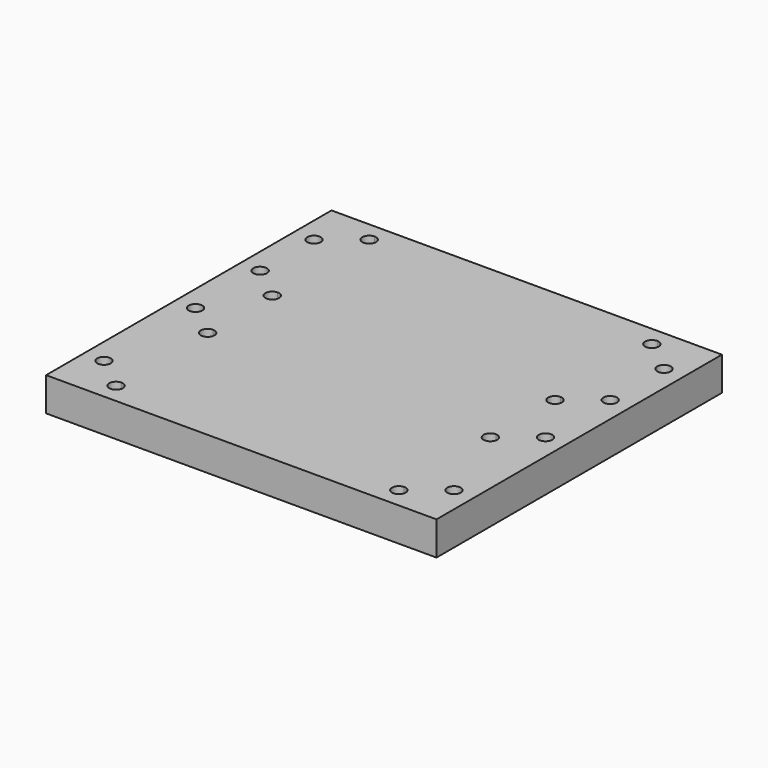
from build123d import *

# Parameters (mm, degrees)
F3_R     = 5.05
F4_DEPTH = 25
F5_DEPTH = 25


with BuildPart() as f4:
    # F3 (on Top) → F4 (new body)
    with BuildSketch(Plane.XY):
        with BuildLine():
            Line((125, 20), (20, 20))
            Line((20, 20), (20, 10.05))
            ThreePointArc((20, 10.05), (23.570889245, 8.570889245), (25.05, 5))
            ThreePointArc((25.05, 5), (23.570889245, 1.429110755), (20, -0.05))
            Line((20, -0.05), (20, -79.95))
            ThreePointArc((20, -79.95), (23.570889245, -81.429110755), (25.05, -85))
            ThreePointArc((25.05, -85), (23.570889245, -88.570889245), (20, -90.05))
            Line((20, -90.05), (20, -139.95))
            ThreePointArc((20, -139.95), (23.570889245, -141.429110755), (25.05, -145))
            ThreePointArc((25.05, -145), (23.570889245, -148.570889245), (20, -150.05))
            Line((20, -150.05), (20, -224.95))
            ThreePointArc((20, -224.95), (23.570889245, -226.429110755), (25.05, -230))
            ThreePointArc((25.05, -230), (23.570889245, -233.570889245), (20, -235.05))
            Line((20, -235.05), (20, -245))
            Line((20, -245), (125, -245))
            Line((125, -245), (125, 20))
        make_face()
        with BuildLine():
            Line((270, 20), (230, 20))
            Line((230, 20), (230, 10.05))
            ThreePointArc((230, 10.05), (233.570889245, 8.570889245), (235.05, 5))
            ThreePointArc((235.05, 5), (233.570889245, 1.429110755), (230, -0.05))
            Line((230, -0.05), (230, -79.95))
            ThreePointArc((230, -79.95), (233.570889245, -81.429110755), (235.05, -85))
            ThreePointArc((235.05, -85), (233.570889245, -88.570889245), (230, -90.05))
            Line((230, -90.05), (230, -139.95))
            ThreePointArc((230, -139.95), (233.570889245, -141.429110755), (235.05, -145))
            ThreePointArc((235.05, -145), (233.570889245, -148.570889245), (230, -150.05))
            Line((230, -150.05), (230, -224.95))
            ThreePointArc((230, -224.95), (233.570889245, -226.429110755), (235.05, -230))
            ThreePointArc((235.05, -230), (233.570889245, -233.570889245), (230, -235.05))
            Line((230, -235.05), (230, -245))
            Line((230, -245), (270, -245))
            Line((270, -245), (270, 20))
        make_face()
        with Locations((255, -210)):
            Circle(F3_R, mode=Mode.SUBTRACT)
        with Locations((255, -125)):
            Circle(F3_R, mode=Mode.SUBTRACT)
        with Locations((255, -65)):
            Circle(F3_R, mode=Mode.SUBTRACT)
        with Locations((255.05, -40)):
            Circle(F3_R, mode=Mode.SUBTRACT)
        with Locations((255, -15)):
            Circle(F3_R, mode=Mode.SUBTRACT)
        with BuildLine():
            Line((230, 20), (125, 20))
            Line((125, 20), (125, -245))
            Line((125, -245), (230, -245))
            Line((230, -245), (230, -235.05))
            ThreePointArc((230, -235.05), (224.95, -230), (230, -224.95))
            Line((230, -224.95), (230, -150.05))
            ThreePointArc((230, -150.05), (224.95, -145), (230, -139.95))
            Line((230, -139.95), (230, -90.05))
            ThreePointArc((230, -90.05), (224.95, -85), (230, -79.95))
            Line((230, -79.95), (230, -0.05))
            ThreePointArc((230, -0.05), (224.95, 5), (230, 10.05))
            Line((230, 10.05), (230, 20))
        make_face()
        with BuildLine():
            Line((20, 20), (-20, 20))
            Line((-20, 20), (-20, -245))
            Line((-20, -245), (20, -245))
            Line((20, -245), (20, -235.05))
            ThreePointArc((20, -235.05), (14.95, -230), (20, -224.95))
            Line((20, -224.95), (20, -150.05))
            ThreePointArc((20, -150.05), (14.95, -145), (20, -139.95))
            Line((20, -139.95), (20, -90.05))
            ThreePointArc((20, -90.05), (14.95, -85), (20, -79.95))
            Line((20, -79.95), (20, -0.05))
            ThreePointArc((20, -0.05), (14.95, 5), (20, 10.05))
            Line((20, 10.05), (20, 20))
        make_face()
        with Locations((-5, -210)):
            Circle(F3_R, mode=Mode.SUBTRACT)
        with Locations((-5, -125)):
            Circle(F3_R, mode=Mode.SUBTRACT)
        with Locations((-5, -65)):
            Circle(F3_R, mode=Mode.SUBTRACT)
        with Locations((-5.05, -40)):
            Circle(F3_R, mode=Mode.SUBTRACT)
        with Locations((-5, -15)):
            Circle(F3_R, mode=Mode.SUBTRACT)
        with BuildLine():
            Line((230, -139.95), (230, -150.05))
            ThreePointArc((230, -150.05), (233.570889245, -148.570889245), (235.05, -145))
            ThreePointArc((235.05, -145), (233.570889245, -141.429110755), (230, -139.95))
        make_face()
        with BuildLine():
            Line((230, -224.95), (230, -235.05))
            ThreePointArc((230, -235.05), (233.570889245, -233.570889245), (235.05, -230))
            ThreePointArc((235.05, -230), (233.570889245, -226.429110755), (230, -224.95))
        make_face()
        with BuildLine():
            ThreePointArc((20, -224.95), (14.95, -230), (20, -235.05))
            Line((20, -235.05), (20, -224.95))
        make_face()
        with BuildLine():
            ThreePointArc((230, -224.95), (224.95, -230), (230, -235.05))
            Line((230, -235.05), (230, -224.95))
        make_face()
        with BuildLine():
            Line((20, -224.95), (20, -235.05))
            ThreePointArc((20, -235.05), (23.570889245, -233.570889245), (25.05, -230))
            ThreePointArc((25.05, -230), (23.570889245, -226.429110755), (20, -224.95))
        make_face()
        with BuildLine():
            ThreePointArc((230, -139.95), (224.95, -145), (230, -150.05))
            Line((230, -150.05), (230, -139.95))
        make_face()
        with BuildLine():
            ThreePointArc((235.05, -85), (233.570889245, -81.429110755), (230, -79.95))
            Line((230, -79.95), (230, -90.05))
            ThreePointArc((230, -90.05), (233.570889245, -88.570889245), (235.05, -85))
        make_face()
        with BuildLine():
            Line((20, -139.95), (20, -150.05))
            ThreePointArc((20, -150.05), (23.570889245, -148.570889245), (25.05, -145))
            ThreePointArc((25.05, -145), (23.570889245, -141.429110755), (20, -139.95))
        make_face()
        with Locations((-5, -15)):
            Circle(F3_R)
        with BuildLine():
            ThreePointArc((20, -139.95), (14.95, -145), (20, -150.05))
            Line((20, -150.05), (20, -139.95))
        make_face()
        with BuildLine():
            ThreePointArc((25.05, -85), (23.570889245, -81.429110755), (20, -79.95))
            Line((20, -79.95), (20, -90.05))
            ThreePointArc((20, -90.05), (23.570889245, -88.570889245), (25.05, -85))
        make_face()
        with Locations((-5, -65)):
            Circle(F3_R)
        with Locations((-5.05, -40)):
            Circle(F3_R)
        with Locations((255.05, -40)):
            Circle(F3_R)
        with Locations((255, -125)):
            Circle(F3_R)
        with Locations((255, -65)):
            Circle(F3_R)
        with Locations((-5, -125)):
            Circle(F3_R)
        with Locations((-5, -210)):
            Circle(F3_R)
        with Locations((255, -210)):
            Circle(F3_R)
        with BuildLine():
            Line((20, -0.05), (20, 10.05))
            ThreePointArc((20, 10.05), (14.95, 5), (20, -0.05))
        make_face()
        with BuildLine():
            Line((230, -90.05), (230, -79.95))
            ThreePointArc((230, -79.95), (224.95, -85), (230, -90.05))
        make_face()
        with BuildLine():
            ThreePointArc((25.05, 5), (23.570889245, 8.570889245), (20, 10.05))
            Line((20, 10.05), (20, -0.05))
            ThreePointArc((20, -0.05), (23.570889245, 1.429110755), (25.05, 5))
        make_face()
        with BuildLine():
            Line((20, -90.05), (20, -79.95))
            ThreePointArc((20, -79.95), (14.95, -85), (20, -90.05))
        make_face()
        with BuildLine():
            ThreePointArc((235.05, 5), (233.570889245, 8.570889245), (230, 10.05))
            Line((230, 10.05), (230, -0.05))
            ThreePointArc((230, -0.05), (233.570889245, 1.429110755), (235.05, 5))
        make_face()
        with BuildLine():
            Line((230, -0.05), (230, 10.05))
            ThreePointArc((230, 10.05), (224.95, 5), (230, -0.05))
        make_face()
        with Locations((255, -15)):
            Circle(F3_R)
    extrude(amount=-F4_DEPTH)

    # F3 (on Top) → F5 (cut)
    with BuildSketch(Plane.XY):
        with Locations((-5, -15)):
            Circle(F3_R)
        with BuildLine():
            ThreePointArc((25.05, 5), (23.570889245, 8.570889245), (20, 10.05))
            Line((20, 10.05), (20, -0.05))
            ThreePointArc((20, -0.05), (23.570889245, 1.429110755), (25.05, 5))
        make_face()
        with BuildLine():
            Line((20, -0.05), (20, 10.05))
            ThreePointArc((20, 10.05), (14.95, 5), (20, -0.05))
        make_face()
        with Locations((-5, -65)):
            Circle(F3_R)
        with BuildLine():
            ThreePointArc((25.05, -85), (23.570889245, -81.429110755), (20, -79.95))
            Line((20, -79.95), (20, -90.05))
            ThreePointArc((20, -90.05), (23.570889245, -88.570889245), (25.05, -85))
        make_face()
        with BuildLine():
            Line((20, -90.05), (20, -79.95))
            ThreePointArc((20, -79.95), (14.95, -85), (20, -90.05))
        make_face()
        with Locations((-5, -125)):
            Circle(F3_R)
        with BuildLine():
            Line((20, -139.95), (20, -150.05))
            ThreePointArc((20, -150.05), (23.570889245, -148.570889245), (25.05, -145))
            ThreePointArc((25.05, -145), (23.570889245, -141.429110755), (20, -139.95))
        make_face()
        with BuildLine():
            ThreePointArc((20, -139.95), (14.95, -145), (20, -150.05))
            Line((20, -150.05), (20, -139.95))
        make_face()
        with Locations((-5, -210)):
            Circle(F3_R)
        with BuildLine():
            ThreePointArc((20, -224.95), (14.95, -230), (20, -235.05))
            Line((20, -235.05), (20, -224.95))
        make_face()
        with BuildLine():
            Line((20, -224.95), (20, -235.05))
            ThreePointArc((20, -235.05), (23.570889245, -233.570889245), (25.05, -230))
            ThreePointArc((25.05, -230), (23.570889245, -226.429110755), (20, -224.95))
        make_face()
        with BuildLine():
            ThreePointArc((230, -224.95), (224.95, -230), (230, -235.05))
            Line((230, -235.05), (230, -224.95))
        make_face()
        with BuildLine():
            Line((230, -224.95), (230, -235.05))
            ThreePointArc((230, -235.05), (233.570889245, -233.570889245), (235.05, -230))
            ThreePointArc((235.05, -230), (233.570889245, -226.429110755), (230, -224.95))
        make_face()
        with Locations((255, -210)):
            Circle(F3_R)
        with BuildLine():
            Line((230, -139.95), (230, -150.05))
            ThreePointArc((230, -150.05), (233.570889245, -148.570889245), (235.05, -145))
            ThreePointArc((235.05, -145), (233.570889245, -141.429110755), (230, -139.95))
        make_face()
        with BuildLine():
            ThreePointArc((230, -139.95), (224.95, -145), (230, -150.05))
            Line((230, -150.05), (230, -139.95))
        make_face()
        with Locations((255, -125)):
            Circle(F3_R)
        with BuildLine():
            Line((230, -90.05), (230, -79.95))
            ThreePointArc((230, -79.95), (224.95, -85), (230, -90.05))
        make_face()
        with BuildLine():
            ThreePointArc((235.05, -85), (233.570889245, -81.429110755), (230, -79.95))
            Line((230, -79.95), (230, -90.05))
            ThreePointArc((230, -90.05), (233.570889245, -88.570889245), (235.05, -85))
        make_face()
        with Locations((255, -65)):
            Circle(F3_R)
        with BuildLine():
            ThreePointArc((235.05, 5), (233.570889245, 8.570889245), (230, 10.05))
            Line((230, 10.05), (230, -0.05))
            ThreePointArc((230, -0.05), (233.570889245, 1.429110755), (235.05, 5))
        make_face()
        with BuildLine():
            Line((230, -0.05), (230, 10.05))
            ThreePointArc((230, 10.05), (224.95, 5), (230, -0.05))
        make_face()
        with Locations((255, -15)):
            Circle(F3_R)
    extrude(amount=-F5_DEPTH, mode=Mode.SUBTRACT)


solid = f4.part
